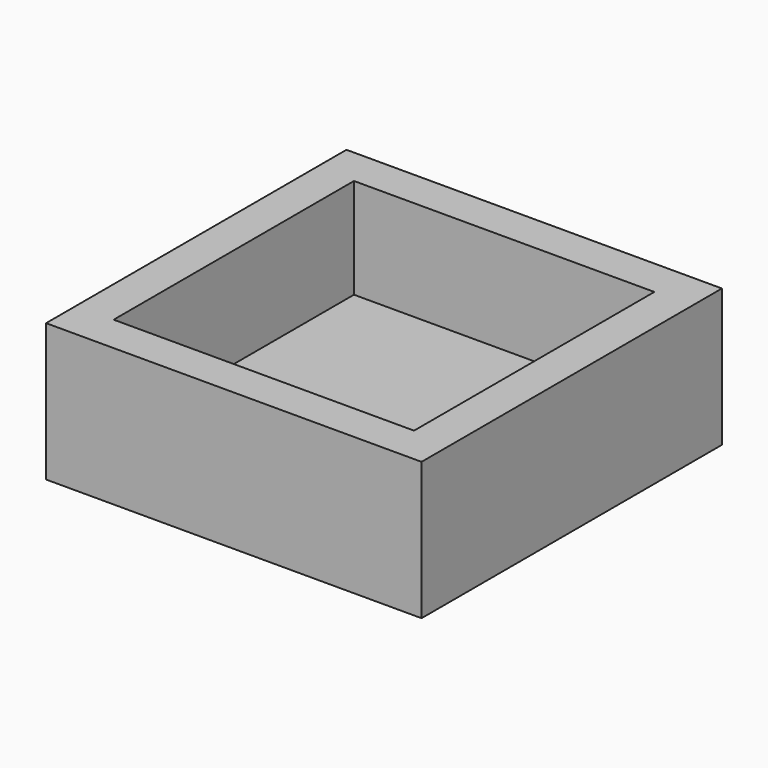
from build123d import *

# Parameters (mm, degrees)
SKETCH_W      = 300
SKETCH_H      = 300
PAD_DEPTH     = 30
SKETCH001_W   = 300
SKETCH001_H   = 300
SKETCH001_W_2 = 240
SKETCH001_H_2 = 240
PAD001_DEPTH  = 80


with BuildPart() as body:
    # Sketch → Pad (new body)
    with BuildSketch(Plane.XY):
        with Locations((150, 150)):
            Rectangle(SKETCH_W, SKETCH_H)
    extrude(amount=PAD_DEPTH)


with BuildPart() as body001:
    # Sketch001 (on Face6 of Pad) → Pad001 (new body)
    with BuildSketch(Plane.XY.offset(30)):
        with Locations((150, 150)):
            Rectangle(SKETCH001_W, SKETCH001_H)
        with Locations((150, 150)):
            Rectangle(SKETCH001_W_2, SKETCH001_H_2, mode=Mode.SUBTRACT)
    extrude(amount=PAD001_DEPTH)

    # Boolean: union Body
    add(body.part)


solid = body001.part
